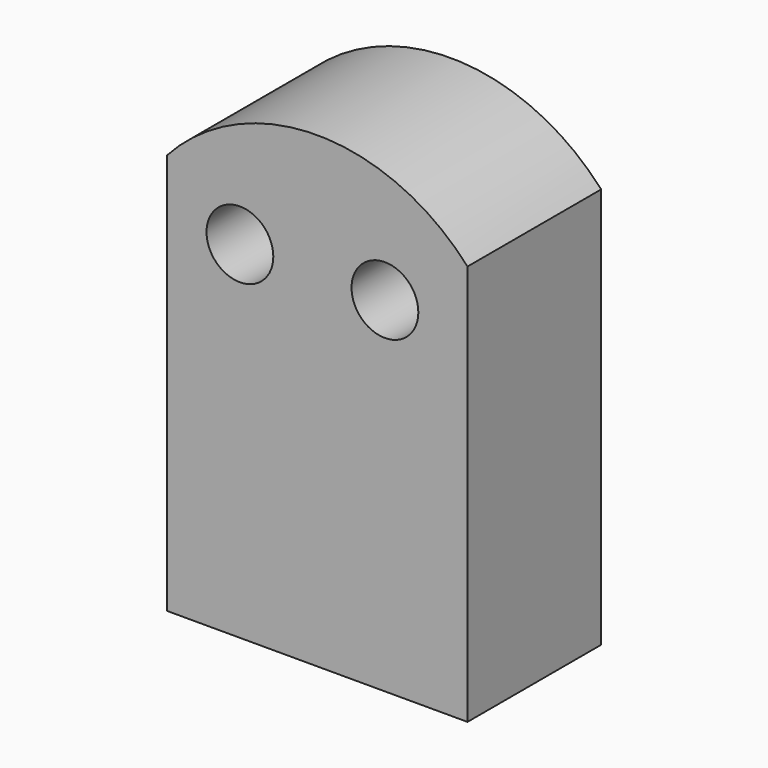
from build123d import *

# Parameters (mm, degrees)
F0_W     = 45
F0_H     = 60
F0_R     = 5
F1_DEPTH = 25


with BuildPart() as f1:
    # F0 (on Front) → F1 (new body)
    with BuildSketch(Plane.XZ):
        with BuildLine():
            ThreePointArc((22.5, 30), (0, 40), (-22.5, 30))
            Line((-22.5, 30), (22.5, 30))
        make_face()
        Rectangle(F0_W, F0_H)
        with Locations((-11.565693, 21.846309)):
            Circle(F0_R, mode=Mode.SUBTRACT)
        with Locations((10.13783, 21.560736)):
            Circle(F0_R, mode=Mode.SUBTRACT)
    extrude(amount=F1_DEPTH)


solid = f1.part
